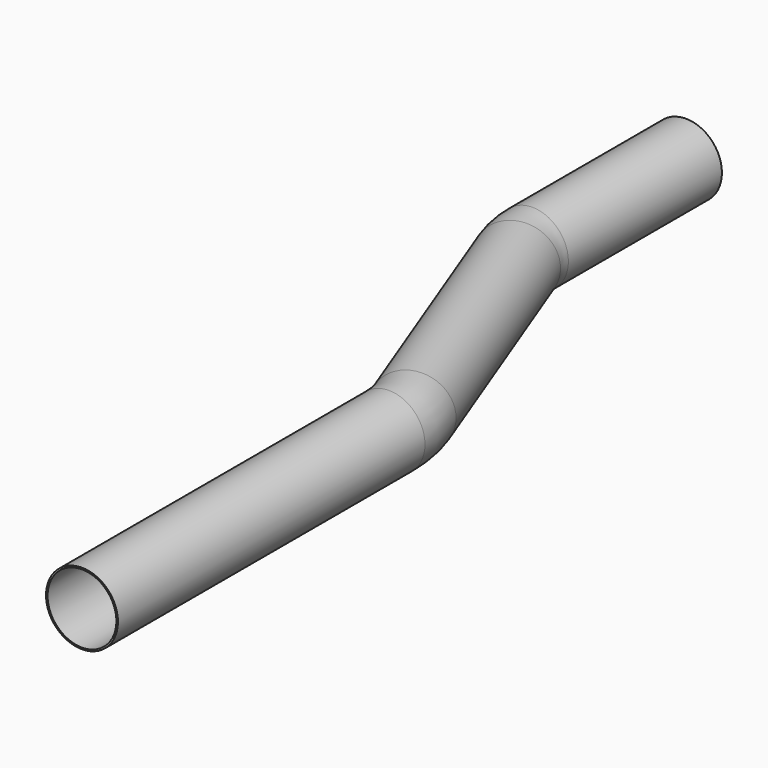
from build123d import *

# Parameters (mm, degrees)
F0_R   = 38.1
F0_R_2 = 36.449


with BuildPart() as f2:
    # F2: sweep along a path in F1
    with BuildLine(Plane.XY) as f2_path:
        Line((0, 0), (0, -203.2))
        ThreePointArc((0, -203.2), (1.2514424201, -216.9533165705), (4.96466448, -230.25488816))
        Line((4.96466448, -230.25488816), (104.9582407787, -493.537290784))
        ThreePointArc((104.9582407787, -493.537290784), (110.4293072401, -513.1358445557), (112.2731842133, -533.4))
        Line((112.2731842133, -533.4), (112.2731842133, -939.8))
    # F0 (on Front) → F2 (sweep)
    with BuildSketch(Plane.XZ):
        Circle(F0_R)
        Circle(F0_R_2, mode=Mode.SUBTRACT)
    sweep(path=f2_path.line)


solid = f2.part
